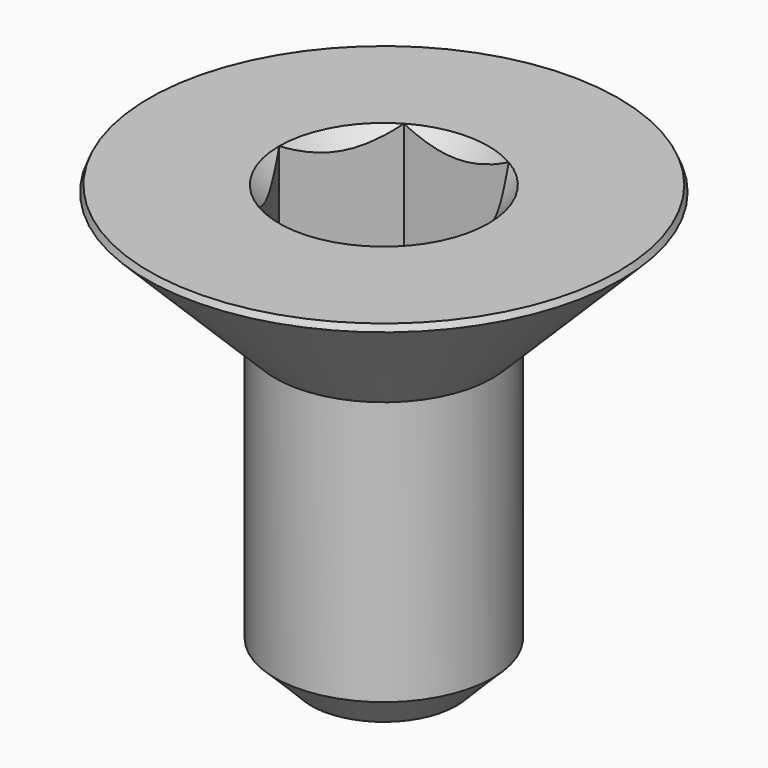
from build123d import *

# Parameters (mm, degrees)
SKETCH001_R     = 6
POCKET_DEPTH    = 5.020854
CHAMFER_SIZE    = 0.25
CHAMFER001_SIZE = 1


with BuildPart() as pocket:
    # Sketch003 → Revolution001 (revolve)
    with BuildSketch(Plane.XZ):
        Polygon((0, -4.019854), (5, -2.2), (5, 1), (0, 1), align=None)
    revolve(axis=Axis((0, 0, 0), (0, 0, 1)))

    # Sketch001 → Pocket (cut, through all)
    with BuildSketch(Plane(origin=(0, 0, 1), x_dir=(-1, 0, 0), z_dir=(0, 0, 1))):
        Circle(SKETCH001_R)
        Polygon((-1.443376, 2.5), (1.443376, 2.5), (2.886751, 0), (1.443376, -2.5), (-1.443376, -2.5), (-2.886751, 0), align=None, mode=Mode.SUBTRACT)
    extrude(amount=-POCKET_DEPTH, mode=Mode.SUBTRACT)


with BuildPart() as chamfer001:
    # Sketch → Revolution (revolve)
    with BuildSketch(Plane.XZ):
        Polygon((2.88675, 0), (6.719999, 0), (3, -3.72), (3, -12), (0, -12), (0, -2.886753), align=None)
    revolve(axis=Axis((0, 0, 0), (0, 0, 1)))

    # Cut: cut Pocket
    add(pocket.part, mode=Mode.SUBTRACT)

    # Chamfer
    chamfer_edges = [chamfer001.edges().sort_by_distance(p)[0] for p in [
        (-6.719999, 0, 0),
    ]]
    chamfer(chamfer_edges, length=CHAMFER_SIZE)

    # Chamfer001
    chamfer001_edges = [chamfer001.edges().sort_by_distance(p)[0] for p in [
        (-3, 0, -12),
    ]]
    chamfer(chamfer001_edges, length=CHAMFER001_SIZE)


solid = chamfer001.part
